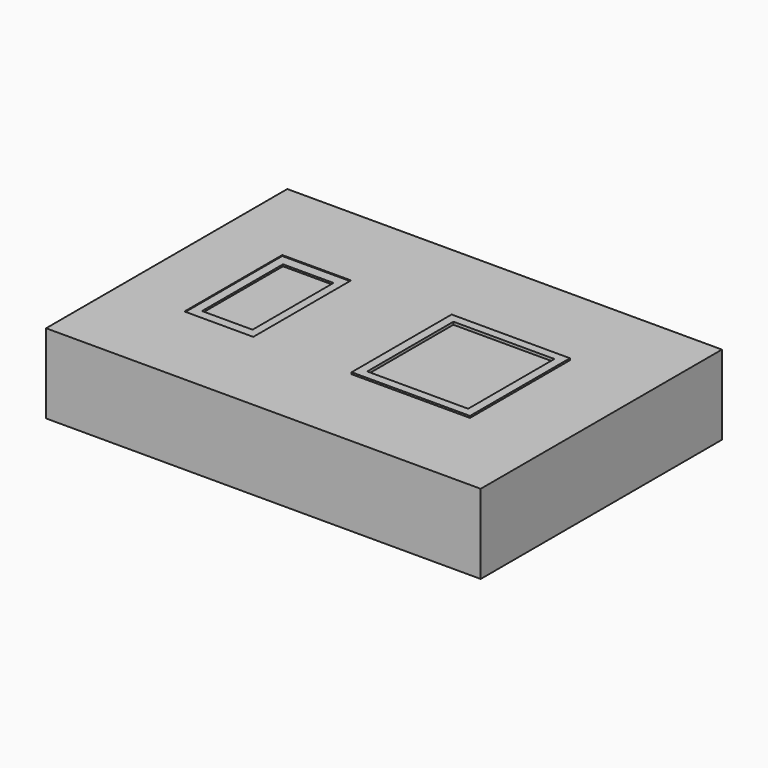
from build123d import *

# Parameters (mm, degrees)
F0_W     = 48
F0_H     = 33.3
F1_DEPTH = 8.77
F2_W     = 7.6
F2_H     = 13.5
F2_W_2   = 5.58
F2_H_2   = 11.18
F3_DEPTH = 0.1
F4_DEPTH = 0.3
F5_W     = 13.07
F5_H     = 13.8
F5_W_2   = 11.15
F5_H_2   = 11.9
F6_DEPTH = 0.2
F7_DEPTH = 0.1


with BuildPart() as f1:
    # F0 (on Top) → F1 (new body)
    with BuildSketch(Plane.XY):
        Rectangle(F0_W, F0_H)
    extrude(amount=F1_DEPTH)

    # F2 (on face) → F3 (cut, symmetric)
    with BuildSketch(Plane.XY.offset(8.77)):
        with Locations((-12.83814013, 0)):
            Rectangle(F2_W, F2_H)
        with Locations((-12.83814013, 0)):
            Rectangle(F2_W_2, F2_H_2, mode=Mode.SUBTRACT)
    extrude(amount=F3_DEPTH, both=True, mode=Mode.SUBTRACT)

    # F4 (cut): a face of the model
    f4_faces = [f1.faces().sort_by_distance(p)[0] for p in [
        (-12.83814013, 0, 8.77),
    ]]
    extrude(f4_faces, amount=-F4_DEPTH, mode=Mode.SUBTRACT)

    # F5 (on face) → F6 (join)
    with BuildSketch(Plane.XY.offset(8.77)):
        with Locations((8.4796537594, 0)):
            Rectangle(F5_W, F5_H)
        with Locations((8.4796537594, 0)):
            Rectangle(F5_W_2, F5_H_2, mode=Mode.SUBTRACT)
    extrude(amount=F6_DEPTH)

    # F7 (cut): a face of the model
    f7_faces = [f1.faces().sort_by_distance(p)[0] for p in [
        (8.4796537594, 0, 8.77),
    ]]
    extrude(f7_faces, amount=-F7_DEPTH, mode=Mode.SUBTRACT)


solid = f1.part
